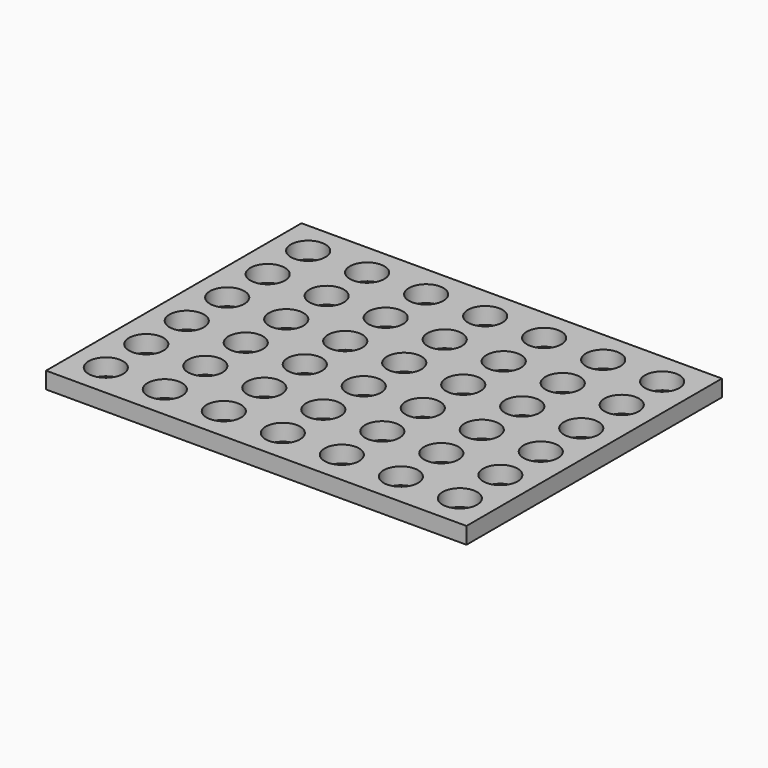
from build123d import *

# Parameters (mm, degrees)
SKETCH_W  = 63.340006
SKETCH_H  = 48.1
SKETCH_R  = 2.6
PAD_DEPTH = 2.5


with BuildPart() as part:
    # Sketch → Pad (new body)
    with BuildSketch(Plane.XY):
        with Locations((31.670003, 24.05)):
            Rectangle(SKETCH_W, SKETCH_H)
        with Locations((5, 43.1)):
            Circle(SKETCH_R, mode=Mode.SUBTRACT)
        with Locations((13.890001, 43.1)):
            Circle(SKETCH_R, mode=Mode.SUBTRACT)
        with Locations((22.780002, 43.1)):
            Circle(SKETCH_R, mode=Mode.SUBTRACT)
        with Locations((31.670003, 43.1)):
            Circle(SKETCH_R, mode=Mode.SUBTRACT)
        with Locations((40.560004, 43.1)):
            Circle(SKETCH_R, mode=Mode.SUBTRACT)
        with Locations((49.450005, 43.1)):
            Circle(SKETCH_R, mode=Mode.SUBTRACT)
        with Locations((58.340006, 43.1)):
            Circle(SKETCH_R, mode=Mode.SUBTRACT)
        with Locations((5, 35.48)):
            Circle(SKETCH_R, mode=Mode.SUBTRACT)
        with Locations((13.890001, 35.48)):
            Circle(SKETCH_R, mode=Mode.SUBTRACT)
        with Locations((22.780002, 35.48)):
            Circle(SKETCH_R, mode=Mode.SUBTRACT)
        with Locations((31.670003, 35.48)):
            Circle(SKETCH_R, mode=Mode.SUBTRACT)
        with Locations((40.560004, 35.48)):
            Circle(SKETCH_R, mode=Mode.SUBTRACT)
        with Locations((49.450005, 35.48)):
            Circle(SKETCH_R, mode=Mode.SUBTRACT)
        with Locations((58.340006, 35.48)):
            Circle(SKETCH_R, mode=Mode.SUBTRACT)
        with Locations((5, 27.86)):
            Circle(SKETCH_R, mode=Mode.SUBTRACT)
        with Locations((13.890001, 27.86)):
            Circle(SKETCH_R, mode=Mode.SUBTRACT)
        with Locations((22.780002, 27.86)):
            Circle(SKETCH_R, mode=Mode.SUBTRACT)
        with Locations((31.670003, 27.86)):
            Circle(SKETCH_R, mode=Mode.SUBTRACT)
        with Locations((40.560004, 27.86)):
            Circle(SKETCH_R, mode=Mode.SUBTRACT)
        with Locations((49.450005, 27.86)):
            Circle(SKETCH_R, mode=Mode.SUBTRACT)
        with Locations((58.340006, 27.86)):
            Circle(SKETCH_R, mode=Mode.SUBTRACT)
        with Locations((5, 20.24)):
            Circle(SKETCH_R, mode=Mode.SUBTRACT)
        with Locations((13.890001, 20.24)):
            Circle(SKETCH_R, mode=Mode.SUBTRACT)
        with Locations((22.780002, 20.24)):
            Circle(SKETCH_R, mode=Mode.SUBTRACT)
        with Locations((31.670003, 20.24)):
            Circle(SKETCH_R, mode=Mode.SUBTRACT)
        with Locations((40.560004, 20.24)):
            Circle(SKETCH_R, mode=Mode.SUBTRACT)
        with Locations((49.450005, 20.24)):
            Circle(SKETCH_R, mode=Mode.SUBTRACT)
        with Locations((58.340006, 20.24)):
            Circle(SKETCH_R, mode=Mode.SUBTRACT)
        with Locations((5, 12.62)):
            Circle(SKETCH_R, mode=Mode.SUBTRACT)
        with Locations((13.890001, 12.62)):
            Circle(SKETCH_R, mode=Mode.SUBTRACT)
        with Locations((22.780002, 12.62)):
            Circle(SKETCH_R, mode=Mode.SUBTRACT)
        with Locations((31.670003, 12.62)):
            Circle(SKETCH_R, mode=Mode.SUBTRACT)
        with Locations((40.560004, 12.62)):
            Circle(SKETCH_R, mode=Mode.SUBTRACT)
        with Locations((49.450005, 12.62)):
            Circle(SKETCH_R, mode=Mode.SUBTRACT)
        with Locations((58.340006, 12.62)):
            Circle(SKETCH_R, mode=Mode.SUBTRACT)
        with Locations((5, 5)):
            Circle(SKETCH_R, mode=Mode.SUBTRACT)
        with Locations((13.890001, 5)):
            Circle(SKETCH_R, mode=Mode.SUBTRACT)
        with Locations((22.780002, 5)):
            Circle(SKETCH_R, mode=Mode.SUBTRACT)
        with Locations((31.670003, 5)):
            Circle(SKETCH_R, mode=Mode.SUBTRACT)
        with Locations((40.560004, 5)):
            Circle(SKETCH_R, mode=Mode.SUBTRACT)
        with Locations((49.450005, 5)):
            Circle(SKETCH_R, mode=Mode.SUBTRACT)
        with Locations((58.340006, 5)):
            Circle(SKETCH_R, mode=Mode.SUBTRACT)
    extrude(amount=PAD_DEPTH)


solid = part.part
